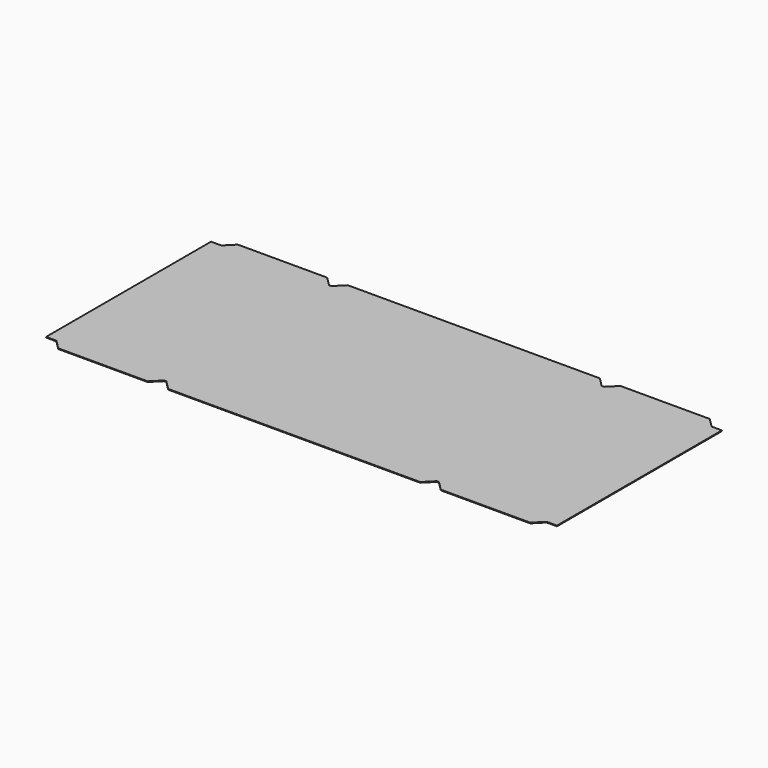
from build123d import *

# Parameters (mm, degrees)
F0_W     = 12.7
F0_H     = 285.75
F1_DEPTH = 0.9525


with BuildPart() as f1:
    # F0 (on Top) → F1 (new body)
    with BuildSketch(Plane.XY):
        Polygon((1.5875, 0), (0, 0), (0, -285.75), (1.5875, -285.75), (188.9125, -285.75), (376.2375, -285.75), (377.825, -285.75), (377.825, 0), (376.2375, 0), (188.9125, 0), align=None)
        Polygon((0, -285.75), (0, 0), (-1.5875, 0), (-150.8125, 0), (-152.4, 0), (-152.4, -285.75), (-150.8125, -285.75), (-1.5875, -285.75), align=None)
        Polygon((14.2875, 12.7), (1.5875, 0), (188.9125, 0), (376.2375, 0), (363.5375, 12.7), (188.9125, 12.7), align=None)
        Polygon((-150.8125, 0), (-1.5875, 0), (-14.2875, 12.7), (-138.1125, 12.7), align=None)
        Polygon((188.9125, -285.75), (1.5875, -285.75), (14.2875, -298.45), (188.9125, -298.45), (363.5375, -298.45), (376.2375, -285.75), align=None)
        Polygon((-14.2875, -298.45), (-1.5875, -285.75), (-150.8125, -285.75), (-138.1125, -298.45), align=None)
        with Locations((-158.75, -142.875)):
            Rectangle(F0_W, F0_H)
        Polygon((379.4125, 0), (377.825, 0), (377.825, -285.75), (379.4125, -285.75), (528.6375, -285.75), (530.225, -285.75), (530.225, 0), (528.6375, 0), align=None)
        Polygon((392.1125, 12.7), (379.4125, 0), (528.6375, 0), (515.9375, 12.7), align=None)
        Polygon((528.6375, -285.75), (379.4125, -285.75), (392.1125, -298.45), (515.9375, -298.45), align=None)
        with Locations((536.575, -142.875)):
            Rectangle(F0_W, F0_H)
    extrude(amount=F1_DEPTH)


solid = f1.part
